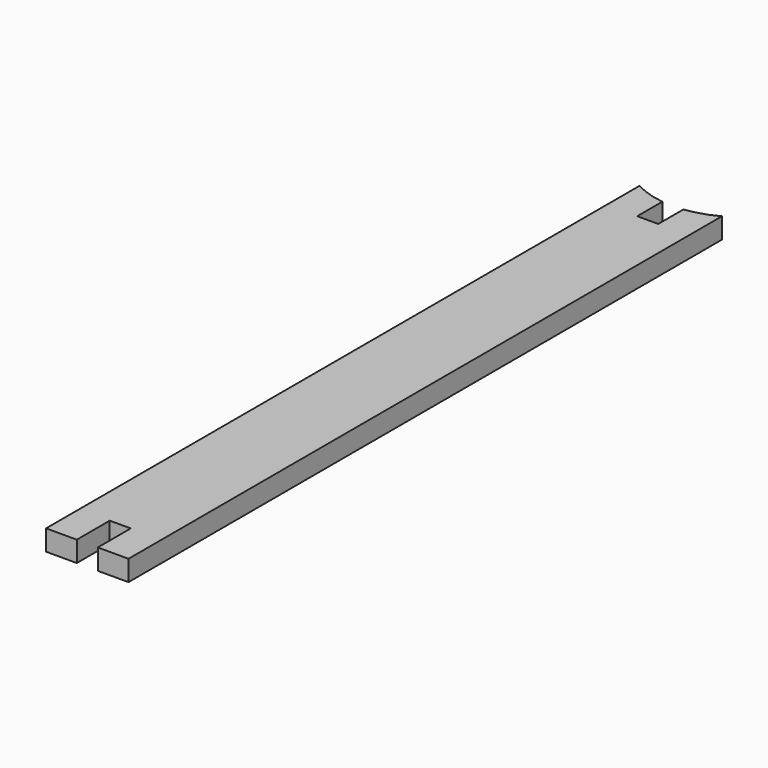
from build123d import *

# Parameters (mm, degrees)
PAD_DEPTH = 2.5


with BuildPart() as part:
    # Sketch → Pad (new body, symmetric)
    with BuildSketch(Plane.XY):
        with BuildLine():
            Line((-10, 0), (-2.55, 0))
            Line((-2.55, 0), (-2.55, 10))
            Line((-2.55, 10), (2.55, 10))
            Line((2.55, 10), (2.55, 0))
            Line((2.55, 0), (10, 0))
            Line((10, 0), (10, 180))
            ThreePointArc((2.55, 177.621582), (6.386693, 178.460932), (10, 180))
            Line((2.55, 170), (2.55, 177.621582))
            Line((-2.55, 170), (2.55, 170))
            Line((-2.55, 177.621582), (-2.55, 170))
            ThreePointArc((-10, 180), (-6.386693, 178.460932), (-2.55, 177.621582))
            Line((-10, 180), (-10, 0))
        make_face()
    extrude(amount=PAD_DEPTH, both=True)


solid = part.part
